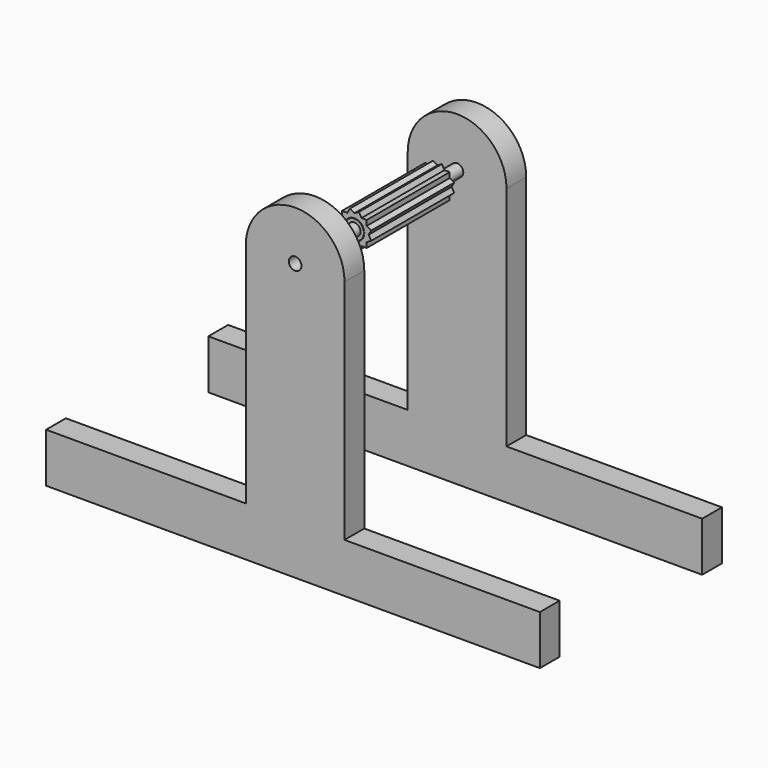
from build123d import *

# Parameters (mm, degrees)
F1_DEPTH  = 21
F2_R      = 2
F3_DEPTH  = 21.001
F4_R      = 1.925
F5_DEPTH  = 21
F6_R      = 1.25
F7_DEPTH  = 10
F8_R      = 1.25
F9_DEPTH  = 5
F10_R     = 10
F11_DEPTH = 5
F12_R     = 10
F13_DEPTH = 5
F14_R     = 1.275
F15_DEPTH = 5
F17_W     = 10
F17_H     = 56
F18_DEPTH = 5
F19_R     = 1.275
F20_DEPTH = 5
F22_W     = 10
F22_H     = 56
F23_DEPTH = 5
F25_DEPTH = 5
F27_DEPTH = 5


with BuildPart() as f1:
    # F0 (on Front) → F1 (new body)
    with BuildSketch(Plane.XZ):
        Polygon((0, -2.5), (0, 0), (-1.25, -2.1650635095), (-0.6698729811, -2.5), align=None)
        Polygon((1.25, -2.1650635095), (0, 0), (0, -2.5), (0.6698729811, -2.5), align=None)
        Polygon((2.1650635095, -1.25), (0, 0), (1.25, -2.1650635095), (1.8301270189, -1.8301270189), align=None)
        Polygon((2.5, -0.6698729811), (2.5, 0), (0, 0), (2.1650635095, -1.25), align=None)
        Polygon((0, 0), (2.5, 0), (2.5, 0.6698729811), (2.1650635095, 1.25), align=None)
        Polygon((1.25, 2.1650635095), (0, 0), (2.1650635095, 1.25), (1.8301270189, 1.8301270189), align=None)
        Polygon((0, 2.5), (0, 0), (1.25, 2.1650635095), (0.6698729811, 2.5), align=None)
        Polygon((-1.25, 2.1650635095), (0, 0), (0, 2.5), (-0.6698729811, 2.5), align=None)
        Polygon((-2.5, 0), (0, 0), (-2.1650635095, 1.25), (-2.5, 0.6698729811), align=None)
        Polygon((-2.1650635095, 1.25), (0, 0), (-1.25, 2.1650635095), (-1.8301270189, 1.8301270189), align=None)
        Polygon((-2.1650635095, -1.25), (0, 0), (-2.5, 0), (-2.5, -0.6698729811), align=None)
        Polygon((-1.25, -2.1650635095), (0, 0), (-2.1650635095, -1.25), (-1.8301270189, -1.8301270189), align=None)
        Polygon((-2.5, -0.6698729811), (-2.8867513459, 0), (-3.4150635095, -0.9150635095), (-2.5, -1.443375673), align=None)
        Polygon((-2.5, -1.443375673), (-2.1650635095, -1.25), (-2.5, -0.6698729811), align=None)
        Polygon((-1.8301270189, -1.8301270189), (-2.1650635095, -1.25), (-2.5, -1.443375673), align=None)
        Polygon((-2.5, -0.6698729811), (-2.5, 0), (-2.8867513459, 0), align=None)
        Polygon((-2.8867513459, 0), (-2.5, 0), (-2.5, 0.6698729811), align=None)
        Polygon((-2.5, 0.6698729811), (-2.5, 1.443375673), (-3.4150635095, 0.9150635095), (-2.8867513459, 0), align=None)
        Polygon((-2.5, 0.6698729811), (-2.1650635095, 1.25), (-2.5, 1.443375673), align=None)
        Polygon((-2.5, 1.443375673), (-2.1650635095, 1.25), (-1.8301270189, 1.8301270189), align=None)
        Polygon((-1.8301270189, 1.8301270189), (-1.25, 2.1650635095), (-1.443375673, 2.5), align=None)
        Polygon((-1.443375673, 2.5), (-1.25, 2.1650635095), (-0.6698729811, 2.5), align=None)
        Polygon((-1.8301270189, 1.8301270189), (-1.443375673, 2.5), (-2.5, 2.5), (-2.5, 1.443375673), align=None)
        Polygon((-0.6698729811, 2.5), (0, 2.8867513459), (-0.9150635095, 3.4150635095), (-1.443375673, 2.5), align=None)
        Polygon((-0.6698729811, 2.5), (0, 2.5), (0, 2.8867513459), align=None)
        Polygon((0, 2.8867513459), (0, 2.5), (0.6698729811, 2.5), align=None)
        Polygon((0.6698729811, 2.5), (1.443375673, 2.5), (0.9150635095, 3.4150635095), (0, 2.8867513459), align=None)
        Polygon((1.25, 2.1650635095), (1.8301270189, 1.8301270189), (1.443375673, 2.5), align=None)
        Polygon((1.25, 2.1650635095), (1.443375673, 2.5), (0.6698729811, 2.5), align=None)
        Polygon((2.1650635095, 1.25), (2.5, 1.443375673), (1.8301270189, 1.8301270189), align=None)
        Polygon((2.1650635095, 1.25), (2.5, 0.6698729811), (2.5, 1.443375673), align=None)
        Polygon((1.8301270189, 1.8301270189), (2.5, 1.443375673), (2.5, 2.5), (1.443375673, 2.5), align=None)
        Polygon((2.5, 0.6698729811), (2.8867513459, 0), (3.4150635095, 0.9150635095), (2.5, 1.443375673), align=None)
        Polygon((2.5, -0.6698729811), (2.8867513459, 0), (2.5, 0), align=None)
        Polygon((2.5, 0), (2.8867513459, 0), (2.5, 0.6698729811), align=None)
        Polygon((3.4150635095, -0.9150635095), (2.8867513459, 0), (2.5, -0.6698729811), (2.5, -1.443375673), align=None)
        Polygon((2.5, -1.443375673), (2.5, -0.6698729811), (2.1650635095, -1.25), align=None)
        Polygon((1.8301270189, -1.8301270189), (2.5, -1.443375673), (2.1650635095, -1.25), align=None)
        Polygon((2.5, -2.5), (2.5, -1.443375673), (1.8301270189, -1.8301270189), (1.443375673, -2.5), align=None)
        Polygon((1.443375673, -2.5), (1.8301270189, -1.8301270189), (1.25, -2.1650635095), align=None)
        Polygon((0.6698729811, -2.5), (1.443375673, -2.5), (1.25, -2.1650635095), align=None)
        Polygon((0.9150635095, -3.4150635095), (1.443375673, -2.5), (0.6698729811, -2.5), (0, -2.8867513459), align=None)
        Polygon((0.6698729811, -2.5), (0, -2.5), (0, -2.8867513459), align=None)
        Polygon((0, -2.8867513459), (0, -2.5), (-0.6698729811, -2.5), align=None)
        Polygon((-0.9150635095, -3.4150635095), (0, -2.8867513459), (-0.6698729811, -2.5), (-1.443375673, -2.5), align=None)
        Polygon((-0.6698729811, -2.5), (-1.25, -2.1650635095), (-1.443375673, -2.5), align=None)
        Polygon((-1.443375673, -2.5), (-1.25, -2.1650635095), (-1.8301270189, -1.8301270189), align=None)
        Polygon((-1.8301270189, -1.8301270189), (-2.5, -1.443375673), (-2.5, -2.5), (-1.443375673, -2.5), align=None)
    extrude(amount=F1_DEPTH)

    # F2 (on Front) → F3 (cut, through all)
    with BuildSketch(Plane.XZ):
        Circle(F2_R)
    extrude(amount=F3_DEPTH, mode=Mode.SUBTRACT)


with BuildPart() as f5:
    # F4 (on Front) → F5 (new body)
    with BuildSketch(Plane.XZ):
        Circle(F4_R)
    extrude(amount=F5_DEPTH)

    # F6 (on face) → F7 (join)
    with BuildSketch(Plane.XZ.offset(21)):
        Circle(F6_R)
    extrude(amount=F7_DEPTH)

    # F8 (on face) → F9 (join)
    with BuildSketch(Plane(origin=(0, 0, 0), x_dir=(-1, 0, 0), z_dir=(0, 1, 0))):
        Circle(F8_R)
    extrude(amount=F9_DEPTH)

    # F10 (on face) → F11 (join)
    with BuildSketch(Plane(origin=(0, 5, 0), x_dir=(-1, 0, 0), z_dir=(0, 1, 0))):
        Circle(F10_R)
    extrude(amount=F11_DEPTH)

    # F12 (on face) → F13 (join)
    with BuildSketch(Plane.XZ.offset(31)):
        Circle(F12_R)
    extrude(amount=F13_DEPTH)

    # F14 (on face) → F15 (cut)
    with BuildSketch(Plane.XZ.offset(36)):
        Circle(F14_R)
    extrude(amount=-F15_DEPTH, mode=Mode.SUBTRACT)


with BuildPart() as f18:
    # F17 (on face) → F18 (new body)
    with BuildSketch(Plane.XZ.offset(36)):
        with Locations((5, -28)):
            Rectangle(F17_W, F17_H)
        with Locations((-5, -28)):
            Rectangle(F17_W, F17_H)
    extrude(amount=-F18_DEPTH)

    # F19 (on face) → F20 (cut)
    with BuildSketch(Plane.XZ.offset(36)):
        Circle(F19_R)
    extrude(amount=-F20_DEPTH, mode=Mode.SUBTRACT)

    # F21: union F5
    add(f5.part)

    # F22 (on face) → F23 (join)
    with BuildSketch(Plane(origin=(0, 10, 0), x_dir=(-1, 0, 0), z_dir=(0, 1, 0))):
        with Locations((5, -28)):
            Rectangle(F22_W, F22_H)
        with Locations((-5, -28)):
            Rectangle(F22_W, F22_H)
    extrude(amount=-F23_DEPTH)

    # F24 (on face) → F25 (join)
    with BuildSketch(Plane.XZ.offset(36)):
        Polygon((-50.4363812506, -56), (0, -56), (49.5636187494, -56), (49.5636187494, -46), (-50.4363812506, -46), align=None)
    extrude(amount=-F25_DEPTH)

    # F26 (on face) → F27 (join)
    with BuildSketch(Plane(origin=(0, 10, 0), x_dir=(-1, 0, 0), z_dir=(0, 1, 0))):
        Polygon((-49.6278107166, -56), (0, -56), (50.3721892834, -56), (50.3721892834, -46), (-49.6278107166, -46), align=None)
    extrude(amount=-F27_DEPTH)


solid = Compound([f1.part, f18.part])
